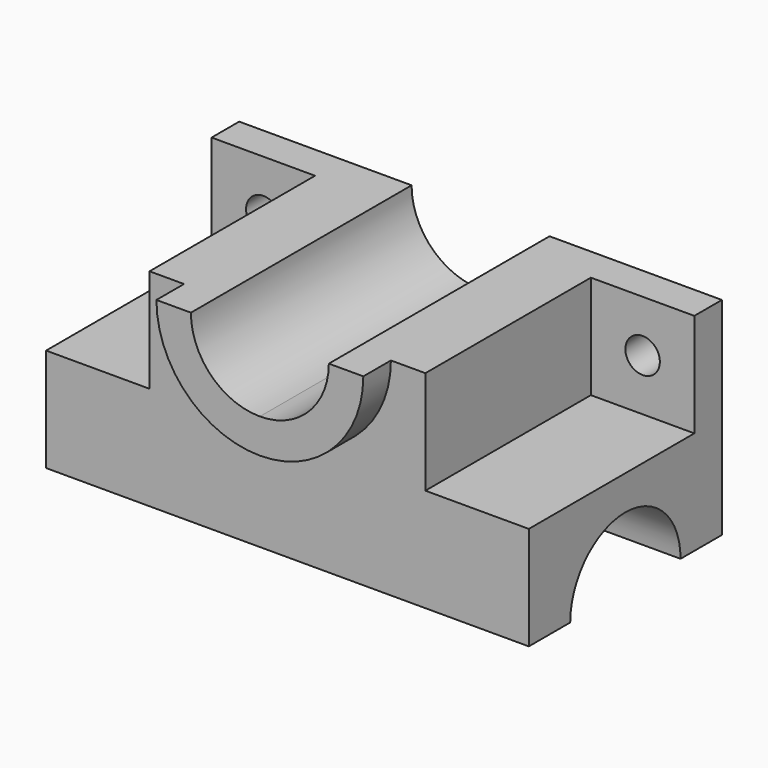
from build123d import *

# Parameters (mm, degrees)
F1_DEPTH = 35
F2_W     = 30
F2_H     = 30
F3_DEPTH = 60
F4_R     = 5
F5_DEPTH = 10.001
F7_DEPTH = 70.001
F9_DEPTH = 10


with BuildPart() as f1:
    # F0 (on Front) → F1 (new body, symmetric)
    with BuildSketch(Plane.XZ):
        with BuildLine():
            Line((0, 40), (0, 0))
            Line((0, 0), (70, 0))
            Line((70, 0), (70, 60))
            Line((70, 60), (20, 60))
            ThreePointArc((20, 60), (14.142136, 45.857864), (0, 40))
        make_face()
    extrude(amount=F1_DEPTH, both=True)

    # F2 (on face) → F3 (cut)
    with BuildSketch(Plane.XZ.offset(35)):
        with Locations((55, 45)):
            Rectangle(F2_W, F2_H)
    extrude(amount=-F3_DEPTH, mode=Mode.SUBTRACT)

    # F4 (on face) → F5 (cut, through all)
    with BuildSketch(Plane.XZ.offset(-25)):
        with Locations((55, 45)):
            Circle(F4_R)
    extrude(amount=-F5_DEPTH, mode=Mode.SUBTRACT)

    # F6 (on face) → F7 (cut, through all)
    with BuildSketch(Plane.YZ.offset(70)):
        with BuildLine():
            ThreePointArc((20, 0), (0, 20), (-20, 0))
            Line((-20, 0), (20, 0))
        make_face()
    extrude(amount=-F7_DEPTH, mode=Mode.SUBTRACT)

    # F8 (on face) → F9 (join)
    with BuildSketch(Plane.XZ.offset(35)):
        with BuildLine():
            Line((0, 40), (0, 29.999999))
            ThreePointArc((0, 29.999999), (21.213204, 38.786796), (30.000001, 60))
            Line((30.000001, 60), (20, 60))
            ThreePointArc((20, 60), (14.142136, 45.857864), (0, 40))
        make_face()
    extrude(amount=F9_DEPTH)

    # F10: F1 across plane


with BuildPart() as f1_1:
    add(f1.part)
    add(f1.part.mirror(Plane.YZ))


solid = f1_1.part
